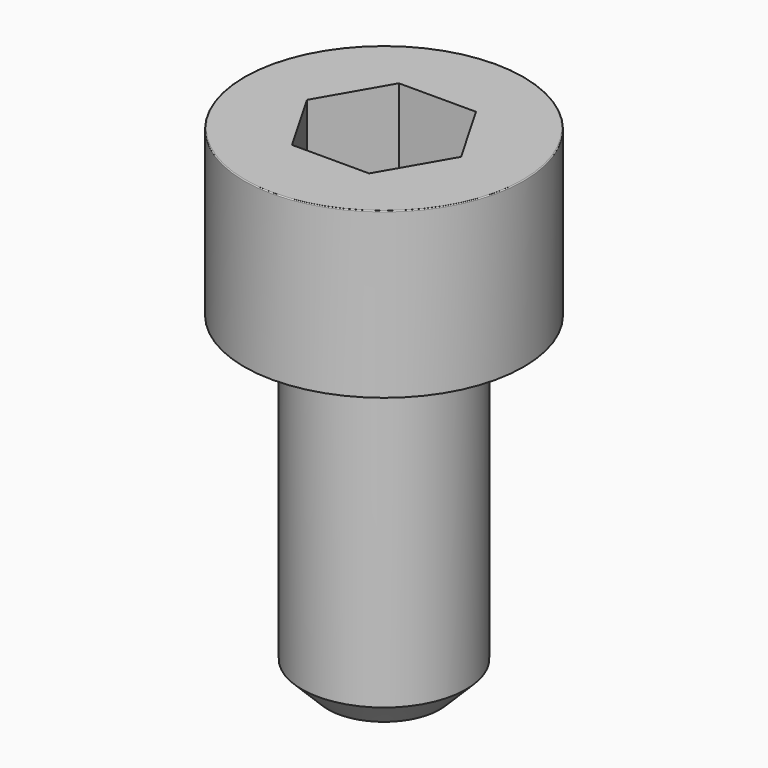
from build123d import *

# Parameters (mm, degrees)
POCKET_DEPTH = 4.06


with BuildPart() as part:
    # Sketch → Revolve (revolve)
    with BuildSketch(Plane.YZ):
        with BuildLine():
            Line((2.499, 0), (4.25, 0))
            Line((4.25, 0), (4.25, 4.97229))
            ThreePointArc((4.25, 4.97229), (4.241884, 4.991884), (4.22229, 5))
            Line((4.22229, 5), (0, 5))
            Line((0, -10), (0, 5))
            Line((1.7, -10), (0, -10))
            Line((2.5, -9.2), (1.7, -10))
            Line((2.5, -0.2), (2.5, -9.2))
            Line((2.499, 0), (2.5, -0.2))
        make_face()
    revolve(axis=Axis((0, 0, 0), (0, 0, 1)))

    # Sketch001 (on Face5 of Revolve) → Pocket (cut)
    with BuildSketch(Plane.XY.offset(5)):
        Polygon((2.344042, 0), (1.172021, 2.03), (-1.172021, 2.03), (-2.344042, 0), (-1.172021, -2.03), (1.172021, -2.03), align=None)
    extrude(amount=-POCKET_DEPTH, mode=Mode.SUBTRACT)


solid = part.part
